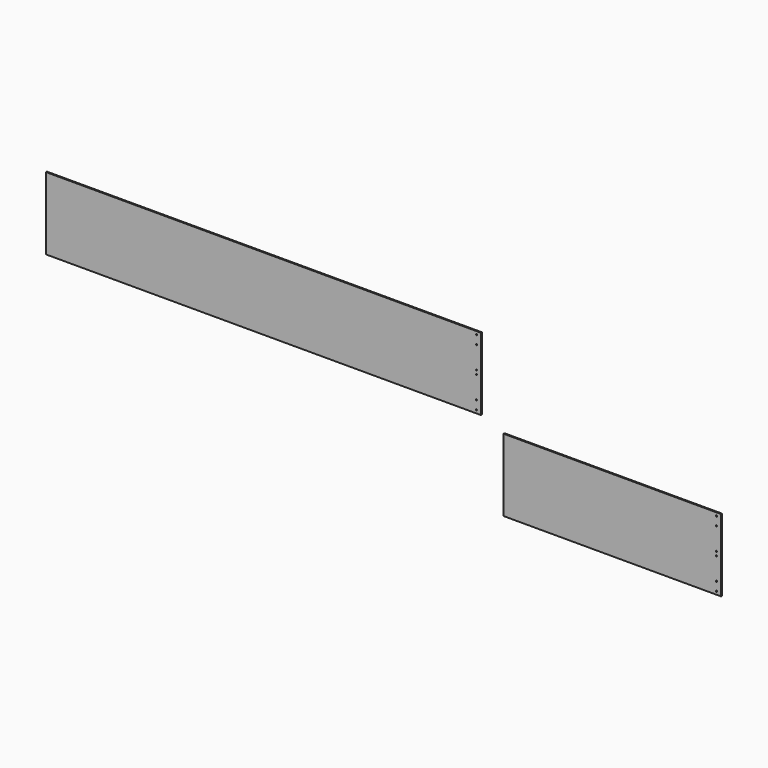
from build123d import *

# Parameters (mm, degrees)
F0_W     = 2438.4
F0_H     = 406.4
F1_DEPTH = 6.35
F2_W     = 1219.2
F2_H     = 406.4
F3_DEPTH = 6.35
F4_D     = 7.9375
F4_DEPTH = 20.6248
F4_TIP   = 2.3846655818
F5_D     = 6.7564
F5_DEPTH = 19.6723
F5_TIP   = 2.0298273432
F6_D     = 6.7564
F6_DEPTH = 19.685
F6_TIP   = 2.0298273432
F7_D     = 6.7564
F7_DEPTH = 19.685
F7_TIP   = 2.0298273432
F8_D     = 6.7564
F8_DEPTH = 19.685
F8_TIP   = 2.0298273432


with BuildPart() as f1:
    # F0 (on Front) → F1 (new body)
    with BuildSketch(Plane.XZ):
        with Locations((-1219.2, 203.2)):
            Rectangle(F0_W, F0_H)
    extrude(amount=F1_DEPTH)

    # F6
    with Locations(Plane(origin=(0, 0, 0), x_dir=(1, 0, 0), z_dir=(0, 1, 0))):
        with Locations((-25.4, -388.8994), (-25.4, -339.725), (-25.4, -66.675), (-25.4, -17.5006)):
            Hole(F6_D / 2, depth=F6_DEPTH)
            with Locations((0, 0, -(F6_DEPTH + F6_TIP / 2))):  # 118° drill point
                Cone(0, F6_D / 2, F6_TIP, mode=Mode.SUBTRACT)

    # F7
    with Locations(Plane(origin=(0, 0, 0), x_dir=(1, 0, 0), z_dir=(0, 1, 0))):
        with Locations((-25.4, -214.1982), (-25.4, -192.2018)):
            Hole(F7_D / 2, depth=F7_DEPTH)
            with Locations((0, 0, -(F7_DEPTH + F7_TIP / 2))):  # 118° drill point
                Cone(0, F7_D / 2, F7_TIP, mode=Mode.SUBTRACT)


with BuildPart() as f3:
    # F2 (on Front) → F3 (new body)
    with BuildSketch(Plane.XZ):
        with Locations((736.6, -254)):
            Rectangle(F2_W, F2_H)
    extrude(amount=F3_DEPTH)

    # F4
    with Locations(Plane(origin=(0, 0, 0), x_dir=(1, 0, 0), z_dir=(0, 1, 0))):
        with Locations((1320.8, 68.3006), (1320.8, 439.6994)):
            Hole(F4_D / 2, depth=F4_DEPTH)
            with Locations((0, 0, -(F4_DEPTH + F4_TIP / 2))):  # 118° drill point
                Cone(0, F4_D / 2, F4_TIP, mode=Mode.SUBTRACT)

    # F5
    with Locations(Plane(origin=(0, 0, 0), x_dir=(1, 0, 0), z_dir=(0, 1, 0))):
        with Locations((1320.8, 68.3006), (1320.8, 117.475), (1320.8, 390.525), (1320.8, 439.6994)):
            Hole(F5_D / 2, depth=F5_DEPTH)
            with Locations((0, 0, -(F5_DEPTH + F5_TIP / 2))):  # 118° drill point
                Cone(0, F5_D / 2, F5_TIP, mode=Mode.SUBTRACT)

    # F8
    with Locations(Plane(origin=(0, 0, 0), x_dir=(1, 0, 0), z_dir=(0, 1, 0))):
        with Locations((1320.8, 243.0018), (1320.8, 264.9982)):
            Hole(F8_D / 2, depth=F8_DEPTH)
            with Locations((0, 0, -(F8_DEPTH + F8_TIP / 2))):  # 118° drill point
                Cone(0, F8_D / 2, F8_TIP, mode=Mode.SUBTRACT)


solid = Compound([f1.part, f3.part])
